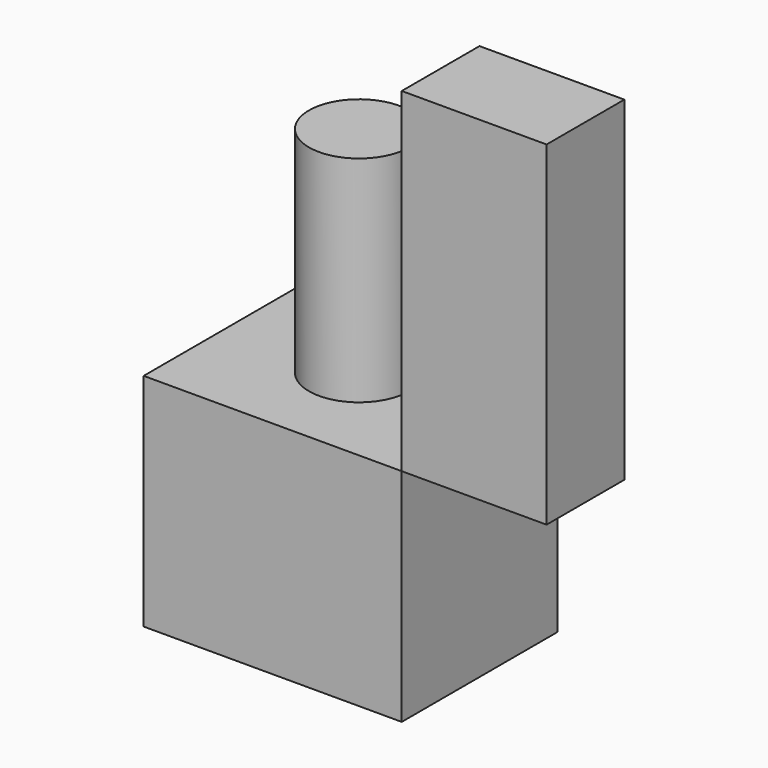
from build123d import *

# Parameters (mm, degrees)
F0_W     = 56.171663
F0_H     = 63.783392
F1_DEPTH = 74.568413
F2_W     = 41.85196
F2_H     = 28.085832
F3_DEPTH = 96.715264
F4_R     = 14.489452
F5_DEPTH = 62.027216


with BuildPart() as f1:
    # F0 (on Right) → F1 (new body)
    with BuildSketch(Plane.YZ):
        with Locations((28.085831, 31.891696)):
            Rectangle(F0_W, F0_H)
    extrude(amount=F1_DEPTH)

    # F4 (on face) → F5 (join)
    with BuildSketch(Plane.XY.offset(63.783392)):
        with Locations((37.003137, 31.558447)):
            Circle(F4_R)
    extrude(amount=F5_DEPTH)


with BuildPart() as f3:
    # F2 (on face) → F3 (new body)
    with BuildSketch(Plane.XY.offset(63.783392)):
        with Locations((95.494393, 14.042916)):
            Rectangle(F2_W, F2_H)
    extrude(amount=F3_DEPTH)


solid = Compound([f1.part, f3.part])
